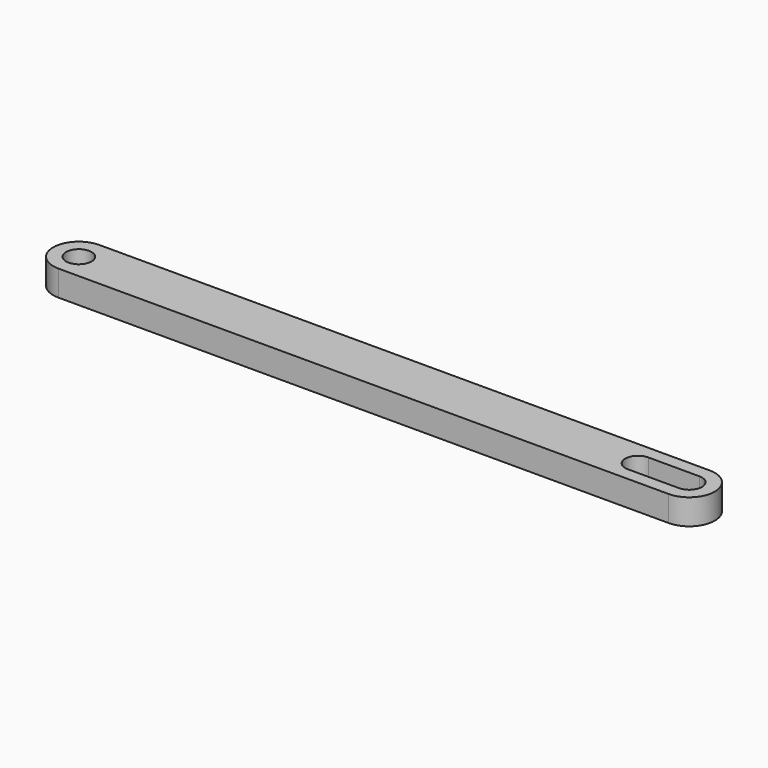
from build123d import *

# Parameters (mm, degrees)
SKETCH_R  = 2.5
PAD_DEPTH = 5


with BuildPart() as part:
    # Sketch → Pad (new body)
    with BuildSketch(Plane.XY):
        with BuildLine():
            ThreePointArc((0, 5), (-5, 0), (0, -5))
            Line((0, -5), (119.3, -5))
            ThreePointArc((119.3, -5), (124.3, 0), (119.3, 5))
            Line((0, 5), (119.3, 5))
        make_face()
        Circle(SKETCH_R, mode=Mode.SUBTRACT)
        with BuildLine():
            ThreePointArc((109.3, 2.5), (106.8, 0), (109.3, -2.5))
            Line((109.3, -2.5), (119.3, -2.5))
            ThreePointArc((119.3, -2.5), (121.8, 0), (119.3, 2.5))
            Line((109.3, 2.5), (119.3, 2.5))
        make_face(mode=Mode.SUBTRACT)
    extrude(amount=PAD_DEPTH)


solid = part.part
